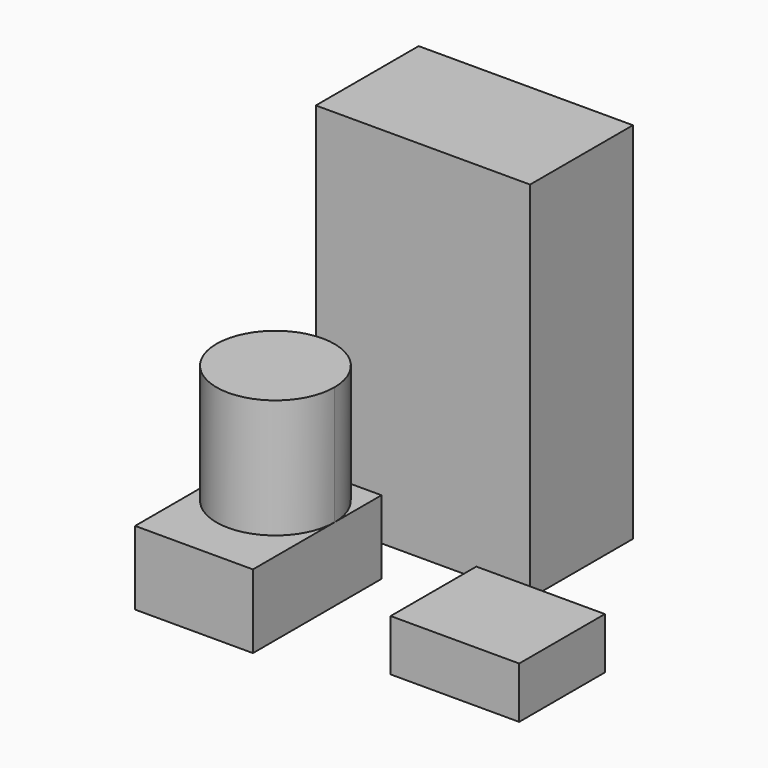
from build123d import *

# Parameters (mm, degrees)
F0_W     = 100
F0_H     = 60
F1_DEPTH = 170
F2_DEPTH = 89.9
F3_DEPTH = 34.4
F0_W_2   = 60
F0_H_2   = 50
F4_DEPTH = 24


with BuildPart() as f1:
    # F0 (on Top) → F1 (new body)
    with BuildSketch(Plane.XY):
        with Locations((-36.479591, 45.945349)):
            Rectangle(F0_W, F0_H)
    extrude(amount=F1_DEPTH)


with BuildPart() as f2:
    # F0 (on Top) → F2 (new body)
    with BuildSketch(Plane.XY):
        with BuildLine():
            ThreePointArc((-38.310248, -33.469244), (-46.364812, -14.023808), (-65.810248, -5.969244))
            ThreePointArc((-65.810248, -5.969244), (-85.255685, -14.023808), (-93.310248, -33.469244))
            ThreePointArc((-93.310248, -33.469244), (-65.810248, -60.969244), (-38.310248, -33.469244))
        make_face()
    extrude(amount=F2_DEPTH)

    # F0 (on Top) → F3 (join)
    with BuildSketch(Plane.XY):
        with BuildLine():
            ThreePointArc((-38.310248, -33.469244), (-65.810248, -60.969244), (-93.310248, -33.469244))
            Line((-93.310248, -33.469244), (-93.310248, -80.969244))
            Line((-93.310248, -80.969244), (-38.310248, -80.969244))
            Line((-38.310248, -80.969244), (-38.310248, -33.469244))
        make_face()
        with BuildLine():
            Line((-65.810248, -5.969244), (-93.310248, -5.969244))
            Line((-93.310248, -5.969244), (-93.310248, -33.469244))
            ThreePointArc((-93.310248, -33.469244), (-85.255685, -14.023808), (-65.810248, -5.969244))
        make_face()
        with BuildLine():
            Line((-38.310248, -5.969244), (-65.810248, -5.969244))
            ThreePointArc((-65.810248, -5.969244), (-46.364812, -14.023808), (-38.310248, -33.469244))
            Line((-38.310248, -33.469244), (-38.310248, -5.969244))
        make_face()
    extrude(amount=F3_DEPTH)


with BuildPart() as f4:
    # F0 (on Top) → F4 (new body)
    with BuildSketch(Plane.XY):
        with Locations((41.389539, -37.745988)):
            Rectangle(F0_W_2, F0_H_2)
    extrude(amount=F4_DEPTH)


solid = Compound([f1.part, f2.part, f4.part])
